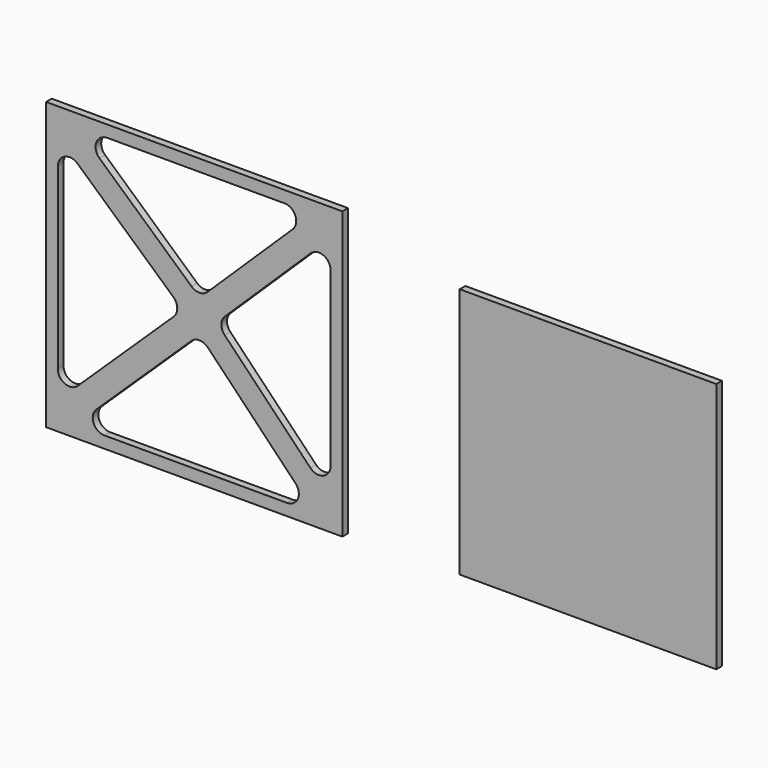
from build123d import *

# Parameters (mm, degrees)
F1_DEPTH = 3
F2_W     = 109.16917
F2_H     = 106.887977
F3_DEPTH = 3


with BuildPart() as f1:
    # F0 (on Front) → F1 (new body)
    with BuildSketch(Plane.XZ):
        Polygon((60.5608, 58.95409), (-65.504543, 58.95409), (0, 0), align=None)
        with BuildLine():
            ThreePointArc((-42.789782, 45.237619), (-44.113061, 50.745409), (-39.444959, 53.95409))
            Line((-39.444959, 53.95409), (35.952121, 53.95409))
            ThreePointArc((35.952121, 53.95409), (40.584275, 50.836415), (39.43981, 45.371349))
            Line((39.43981, 45.371349), (3.219645, 10.112125))
            ThreePointArc((3.219645, 10.112125), (-0.170199, 8.695823), (-3.612867, 9.978395))
            Line((-3.612867, 9.978395), (-42.789782, 45.237619))
        make_face(mode=Mode.SUBTRACT)
        Polygon((0, 0), (-65.504543, 58.95409), (-65.504543, -62.909074), align=None)
        with BuildLine():
            Line((-60.504545, -39.44051), (-60.504545, 36.500467))
            ThreePointArc((-60.504545, 36.500467), (-57.538737, 41.067967), (-52.159721, 40.216937))
            Line((-52.159721, 40.216937), (-11.339519, 3.478755))
            ThreePointArc((-11.339519, 3.478755), (-9.684997, -0.156784), (-11.220975, -3.843973))
            Line((-11.220975, -3.843973), (-52.041177, -43.046767))
            ThreePointArc((-52.041177, -43.046767), (-57.46454, -44.040338), (-60.504545, -39.44051))
        make_face(mode=Mode.SUBTRACT)
        Polygon((0, 0), (-65.504543, -62.909074), (60.5608, -62.909074), align=None)
        with BuildLine():
            Line((37.053386, -57.909075), (-40.655152, -57.909075))
            ThreePointArc((-40.655152, -57.909075), (-45.293648, -54.775719), (-44.118519, -49.302818))
            Line((-44.118519, -49.302818), (-3.740552, -10.524737))
            ThreePointArc((-3.740552, -10.524737), (-0.179127, -9.131955), (3.32494, -10.663329))
            Line((3.32494, -10.663329), (40.655511, -49.441411))
            ThreePointArc((40.655511, -49.441411), (41.654382, -54.866328), (37.053386, -57.909075))
        make_face(mode=Mode.SUBTRACT)
        Polygon((60.5608, -62.909074), (60.5608, 58.95409), (0, 0), align=None)
        with BuildLine():
            ThreePointArc((47.073112, 38.846338), (52.505223, 39.87003), (55.5608, 35.263598))
            Line((55.5608, 35.263598), (55.5608, -38.102393))
            ThreePointArc((55.5608, -38.102393), (52.430209, -42.739775), (46.958675, -41.570057))
            Line((46.958675, -41.570057), (10.498904, -3.696541))
            ThreePointArc((10.498904, -3.696541), (9.101687, -0.147731), (10.61334, 3.353864))
            Line((10.61334, 3.353864), (47.073112, 38.846338))
        make_face(mode=Mode.SUBTRACT)
    extrude(amount=F1_DEPTH)


with BuildPart() as f3:
    # F2 (on Front) → F3 (new body)
    with BuildSketch(Plane.XZ):
        with Locations((165.09711, -7.431311)):
            Rectangle(F2_W, F2_H)
    extrude(amount=F3_DEPTH)


solid = Compound([f1.part, f3.part])
